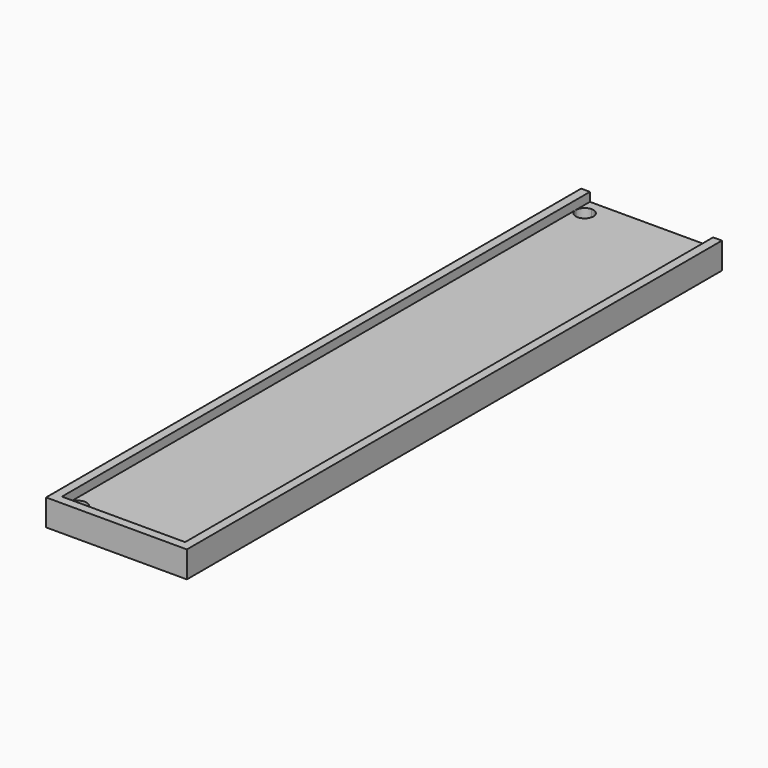
from build123d import *

# Parameters (mm, degrees)
F0_W     = 3.175
F0_H     = 3.175
F0_H_2   = 234.95
F1_DEPTH = 9.525
F2_DEPTH = 6.35
F3_DEPTH = 6.35


with BuildPart() as f1:
    # F0 (on Top) → F1 (new body)
    with BuildSketch(Plane.XY):
        with Locations((-45.285827, 169.703753)):
            Rectangle(F0_W, F0_H)
        Polygon((-43.698327, 168.116253), (-46.873327, 168.116253), (-46.873327, 158.591253), (-46.873327, -57.308747), (-46.873327, -66.833747), (-43.698327, -66.833747), (-43.698327, -63.658747), (-43.698327, 164.941253), align=None)
        with Locations((2.339173, 169.703753)):
            Rectangle(F0_W, F0_H)
        with Locations((2.339173, 50.641253)):
            Rectangle(F0_W, F0_H_2)
        with Locations((-45.285827, -68.421247)):
            Rectangle(F0_W, F0_H)
        Polygon((0.751673, -70.008747), (0.751673, -66.833747), (-40.523327, -66.833747), (-43.698327, -66.833747), (-43.698327, -70.008747), (-34.173327, -70.008747), align=None)
        with Locations((2.339173, -68.421247)):
            Rectangle(F0_W, F0_H)
    extrude(amount=F1_DEPTH)

    # F0 (on Top) → F2 (join)
    with BuildSketch(Plane.XY):
        with BuildLine():
            ThreePointArc((-37.348327, 164.941253), (-40.523327, 161.766253), (-43.698327, 164.941253))
            Line((-43.698327, 164.941253), (-43.698327, -63.658747))
            ThreePointArc((-43.698327, -63.658747), (-40.523327, -60.483747), (-37.348327, -63.658747))
            ThreePointArc((-37.348327, -63.658747), (-38.278263, -65.903811), (-40.523327, -66.833747))
            Line((-40.523327, -66.833747), (0.751673, -66.833747))
            Line((0.751673, -66.833747), (0.751673, 168.116253))
            Line((0.751673, 168.116253), (-40.523327, 168.116253))
            ThreePointArc((-40.523327, 168.116253), (-38.278263, 167.186317), (-37.348327, 164.941253))
        make_face()
        Polygon((-34.173327, 171.291253), (-43.698327, 171.291253), (-43.698327, 168.116253), (-40.523327, 168.116253), (0.751673, 168.116253), (0.751673, 171.291253), align=None)
    extrude(amount=F2_DEPTH)

    # F0 (on Top) → F3 (join)
    with BuildSketch(Plane.XY):
        with BuildLine():
            Line((-40.523327, 168.116253), (-43.698327, 168.116253))
            Line((-43.698327, 168.116253), (-43.698327, 164.941253))
            ThreePointArc((-43.698327, 164.941253), (-42.768391, 167.186317), (-40.523327, 168.116253))
        make_face()
        with BuildLine():
            ThreePointArc((-40.523327, -66.833747), (-42.768391, -65.903811), (-43.698327, -63.658747))
            Line((-43.698327, -63.658747), (-43.698327, -66.833747))
            Line((-43.698327, -66.833747), (-40.523327, -66.833747))
        make_face()
    extrude(amount=F3_DEPTH)


solid = f1.part
